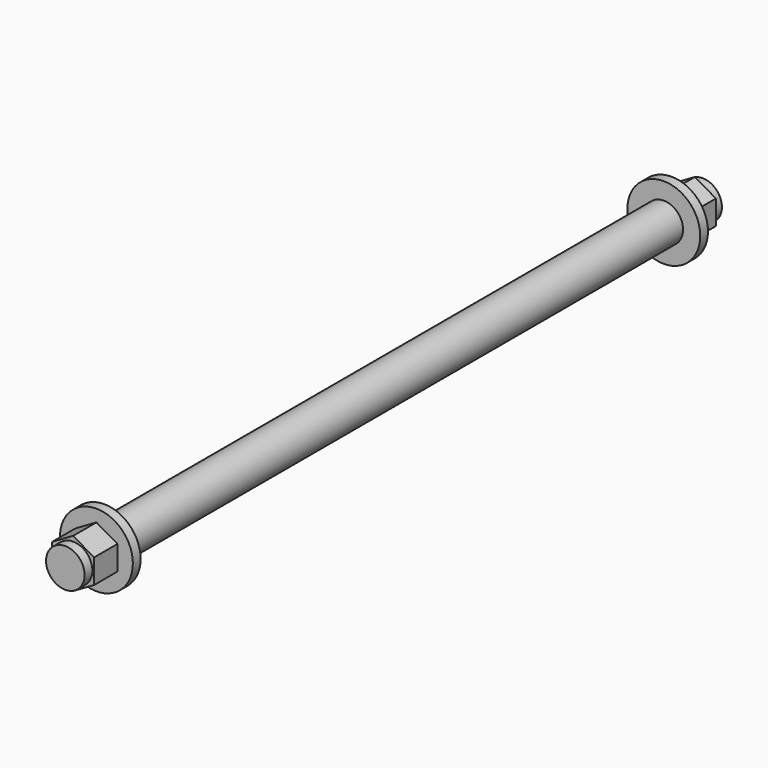
from build123d import *

# Parameters (mm, degrees)
SKETCH013_R     = 3.96875
PAD009_DEPTH    = 164
SKETCH014_R     = 7.5
PAD010_DEPTH    = 10
SKETCH015_R     = 7.5
POCKET003_DEPTH = 8
SKETCH016_R     = 7.5
SKETCH016_R_2   = 3.96875
POCKET004_DEPTH = 2
SKETCH017_R     = 7.5
PAD011_DEPTH    = 10
SKETCH018_R     = 7.5
POCKET005_DEPTH = 8
SKETCH019_R     = 7.5
SKETCH019_R_2   = 3.96875
POCKET006_DEPTH = 2


with BuildPart() as part:
    # Sketch013 → Pad009 (new body)
    with BuildSketch(Plane(origin=(500, 82, 56), x_dir=(1, 0, 0), z_dir=(0, -1, 0))):
        Circle(SKETCH013_R)
    extrude(amount=PAD009_DEPTH)

    # Sketch014 → Pad010 (new body)
    with BuildSketch(Plane(origin=(500, 82, 56), x_dir=(1, 0, 0), z_dir=(0, 1, 0))):
        Circle(SKETCH014_R)
    extrude(amount=-PAD010_DEPTH)

    # Sketch015 → Pocket003 (cut)
    with BuildSketch(Plane(origin=(500, 82, 56), x_dir=(1, 0, 0), z_dir=(0, 1, 0))):
        Circle(SKETCH015_R)
        Polygon((0, 5), (-4.330127, 2.5), (-4.330127, -2.5), (0, -5), (4.330127, -2.5), (4.330127, 2.5), align=None, mode=Mode.SUBTRACT)
    extrude(amount=-POCKET003_DEPTH, mode=Mode.SUBTRACT)

    # Sketch016 → Pocket004 (cut)
    with BuildSketch(Plane(origin=(500, 82, 56), x_dir=(1, 0, 0), z_dir=(0, 1, 0))):
        Circle(SKETCH016_R)
        Circle(SKETCH016_R_2, mode=Mode.SUBTRACT)
    extrude(amount=-POCKET004_DEPTH, mode=Mode.SUBTRACT)

    # Sketch017 → Pad011 (new body)
    with BuildSketch(Plane(origin=(500, -82, 56), x_dir=(1, 0, 0), z_dir=(0, -1, 0))):
        Circle(SKETCH017_R)
    extrude(amount=-PAD011_DEPTH)

    # Sketch018 → Pocket005 (cut)
    with BuildSketch(Plane(origin=(500, -82, 56), x_dir=(1, 0, 0), z_dir=(0, -1, 0))):
        Circle(SKETCH018_R)
        Polygon((0, 5), (-4.330127, 2.5), (-4.330127, -2.5), (0, -5), (4.330127, -2.5), (4.330127, 2.5), align=None, mode=Mode.SUBTRACT)
    extrude(amount=-POCKET005_DEPTH, mode=Mode.SUBTRACT)

    # Sketch019 → Pocket006 (cut)
    with BuildSketch(Plane(origin=(500, -82, 56), x_dir=(1, 0, 0), z_dir=(0, -1, 0))):
        Circle(SKETCH019_R)
        Circle(SKETCH019_R_2, mode=Mode.SUBTRACT)
    extrude(amount=-POCKET006_DEPTH, mode=Mode.SUBTRACT)


with BuildPart() as part_1:
    # Clone017 placement: moved
    add(part.part.moved(Location((-1048.5, 0, -28))))


solid = part_1.part
